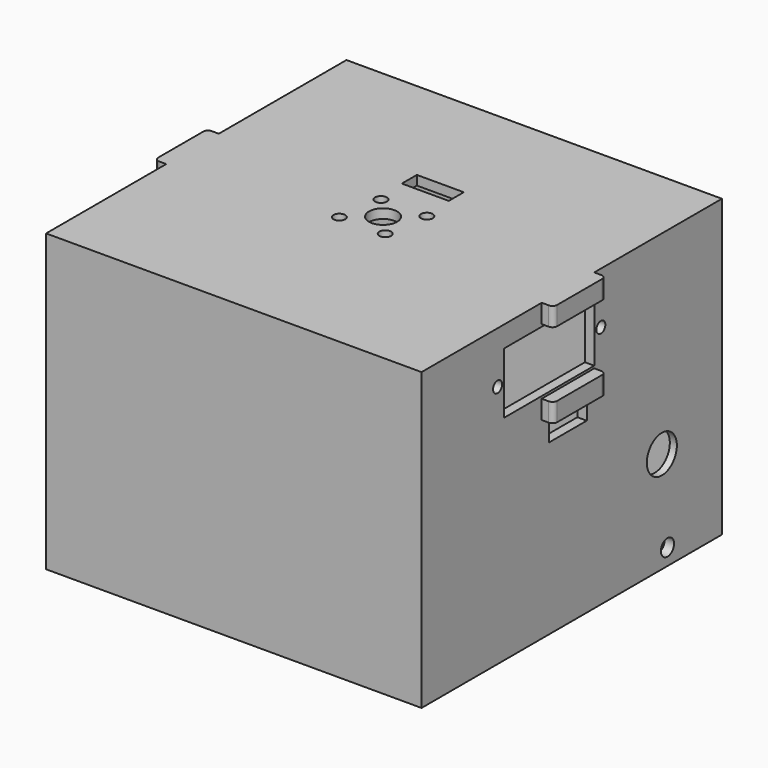
from build123d import *

# Parameters (mm, degrees)
BOX036_W                  = 10
BOX036_H                  = 4
BOX036_DEPTH              = 10
CYLINDER046_R             = 3
CYLINDER046_DEPTH         = 13
CYLINDER046_ROLL_ANGLE    = 90
CYLINDER049_R             = 1.25
CYLINDER049_DEPTH         = 22
CYLINDER049_PITCH_ANGLE   = 90
CYLINDER050_R             = 1.25
CYLINDER050_DEPTH         = 22
CYLINDER050_PITCH_ANGLE   = 90
CYLINDER048_R             = 1.25
CYLINDER048_DEPTH         = 22
CYLINDER048_PITCH_ANGLE   = 90
CYLINDER047_R             = 1.25
CYLINDER047_DEPTH         = 22
CYLINDER047_PITCH_ANGLE   = 90
FUSION033_ROLL_ANGLE      = 34
FUSION033_PLACEMENT_ANGLE = -90
FUSION034_ROLL_ANGLE      = 90
BOX035_W                  = 10
BOX035_H                  = 94
BOX035_DEPTH              = 4
BOX032_W                  = 14
BOX032_H                  = 3
BOX032_DEPTH              = 4
BOX031_W                  = 14
BOX031_H                  = 3
BOX031_DEPTH              = 4
BOX033_W                  = 14
BOX033_H                  = 3
BOX033_DEPTH              = 4
BOX034_W                  = 14
BOX034_H                  = 3
BOX034_DEPTH              = 4
SKETCH010_R               = 1.2
SKETCH010_W               = 24
SKETCH010_H               = 13
PAD005_DEPTH              = 140
CYLINDER044_R             = 6
CYLINDER044_DEPTH         = 31
CYLINDER044_ROLL_ANGLE    = 90
CYLINDER042_R             = 1.75
CYLINDER042_DEPTH         = 31
CYLINDER042_ROLL_ANGLE    = 90
BOX029_W                  = 17
BOX029_H                  = 77
BOX029_DEPTH              = 49
FILLET008_R               = 2
CYLINDER045_R             = 4
CYLINDER045_DEPTH         = 31
CYLINDER045_ROLL_ANGLE    = 90
CYLINDER043_R             = 1.75
CYLINDER043_DEPTH         = 31
CYLINDER043_ROLL_ANGLE    = 90
BOX028_W                  = 8
BOX028_H                  = 24
BOX028_DEPTH              = 11
BOX027_W                  = 76
BOX027_H                  = 76
BOX027_DEPTH              = 66
FILLET007_R               = 3.5
BOX030_W                  = 80
BOX030_H                  = 80
BOX030_DEPTH              = 63
FILLET009_R               = 1
CLONE011_PLACEMENT_ANGLE  = -90


with BuildPart() as cubo012:
    # Box036 → Box036 (new body)
    with BuildSketch(Plane(origin=(-244, 64, 124), x_dir=(1, 0, 0), z_dir=(0, 0, 1))):
        with Locations((5, 2)):
            Rectangle(BOX036_W, BOX036_H)
    extrude(amount=BOX036_DEPTH)


with BuildPart() as cilindro019:
    # Cylinder046 → Cylinder046 (new body)
    with BuildSketch(Plane.XY):
        Circle(CYLINDER046_R)
    extrude(amount=CYLINDER046_DEPTH)


with BuildPart() as cilindro019_1:
    # Cylinder046 roll: moved
    add(cilindro019.part.rotate(Axis((0, 0, 0), (1, 0, 0)), CYLINDER046_ROLL_ANGLE))


with BuildPart() as cilindro019_2:
    # Cylinder046 placement: moved
    add(cilindro019_1.part.moved(Location((17.25, -6, 120))))


with BuildPart() as cilindro022:
    # Cylinder049 → Cylinder049 (new body)
    with BuildSketch(Plane.XY):
        Circle(CYLINDER049_R)
    extrude(amount=CYLINDER049_DEPTH)


with BuildPart() as cilindro022_1:
    # Cylinder049 pitch: moved
    add(cilindro022.part.rotate(Axis((0, 0, 0), (0, 1, 0)), CYLINDER049_PITCH_ANGLE))


with BuildPart() as cilindro022_2:
    # Cylinder049 placement: moved
    add(cilindro022_1.part.moved(Location((20.25, -38, 124.25))))


with BuildPart() as cilindro023:
    # Cylinder050 → Cylinder050 (new body)
    with BuildSketch(Plane.XY):
        Circle(CYLINDER050_R)
    extrude(amount=CYLINDER050_DEPTH)


with BuildPart() as cilindro023_1:
    # Cylinder050 pitch: moved
    add(cilindro023.part.rotate(Axis((0, 0, 0), (0, 1, 0)), CYLINDER050_PITCH_ANGLE))


with BuildPart() as cilindro023_2:
    # Cylinder050 placement: moved
    add(cilindro023_1.part.moved(Location((20.25, -26, 127.25))))


with BuildPart() as cilindro021:
    # Cylinder048 → Cylinder048 (new body)
    with BuildSketch(Plane.XY):
        Circle(CYLINDER048_R)
    extrude(amount=CYLINDER048_DEPTH)


with BuildPart() as cilindro021_1:
    # Cylinder048 pitch: moved
    add(cilindro021.part.rotate(Axis((0, 0, 0), (0, 1, 0)), CYLINDER048_PITCH_ANGLE))


with BuildPart() as cilindro021_2:
    # Cylinder048 placement: moved
    add(cilindro021_1.part.moved(Location((20.25, -30, 118.75))))


with BuildPart() as fusion034:
    # Cylinder047 → Cylinder047 (new body)
    with BuildSketch(Plane.XY):
        Circle(CYLINDER047_R)
    extrude(amount=CYLINDER047_DEPTH)


with BuildPart() as fusion034_1:
    # Cylinder047 pitch: moved
    add(fusion034.part.rotate(Axis((0, 0, 0), (0, 1, 0)), CYLINDER047_PITCH_ANGLE))


with BuildPart() as fusion034_2:
    # Cylinder047 placement: moved
    add(fusion034_1.part.moved(Location((20.25, -34, 132.75))))

    # Fusion033: union Cilindro022, Cilindro023, Cilindro021
    add(cilindro022_2.part)
    add(cilindro023_2.part)
    add(cilindro021_2.part)


with BuildPart() as fusion034_3:
    # Fusion033 roll: moved
    add(fusion034_2.part.rotate(Axis((0, 0, 0), (1, 0, 0)), FUSION033_ROLL_ANGLE))


with BuildPart() as fusion034_4:
    # Fusion033 placement: moved
    add(fusion034_3.part.moved(Location((114.107998, 21, 33.646227))).rotate(Axis((114.107998, 21, 33.646227), (0, 0, 1)), FUSION033_PLACEMENT_ANGLE))

    # Fusion034: union Cilindro019
    add(cilindro019_2.part)


with BuildPart() as fusion034_5:
    # Fusion034 roll: moved
    add(fusion034_4.part.rotate(Axis((0, 0, 0), (1, 0, 0)), FUSION034_ROLL_ANGLE))


with BuildPart() as fusion034_6:
    # Fusion034 placement: moved
    add(fusion034_5.part.moved(Location((-256.25, 172.75, 144))))


with BuildPart() as cubo:
    # Box035 → Box035 (new body)
    with BuildSketch(Plane(origin=(13, -11, 104), x_dir=(1, 0, 0), z_dir=(0, 0, 1))):
        with Locations((5, 47)):
            Rectangle(BOX035_W, BOX035_H)
    extrude(amount=BOX035_DEPTH)


with BuildPart() as cubo009:
    # Box032 → Box032 (new body)
    with BuildSketch(Plane(origin=(11, 75.5, 127), x_dir=(1, 0, 0), z_dir=(0, 0, 1))):
        with Locations((7, 1.5)):
            Rectangle(BOX032_W, BOX032_H)
    extrude(amount=BOX032_DEPTH)


with BuildPart() as cubo008:
    # Box031 → Box031 (new body)
    with BuildSketch(Plane(origin=(11, 75.5, 109), x_dir=(1, 0, 0), z_dir=(0, 0, 1))):
        with Locations((7, 1.5)):
            Rectangle(BOX031_W, BOX031_H)
    extrude(amount=BOX031_DEPTH)


with BuildPart() as cubo010:
    # Box033 → Box033 (new body)
    with BuildSketch(Plane(origin=(11, -6.5, 109), x_dir=(1, 0, 0), z_dir=(0, 0, 1))):
        with Locations((7, 1.5)):
            Rectangle(BOX033_W, BOX033_H)
    extrude(amount=BOX033_DEPTH)


with BuildPart() as cubo011:
    # Box034 → Box034 (new body)
    with BuildSketch(Plane(origin=(11, -6.5, 127), x_dir=(1, 0, 0), z_dir=(0, 0, 1))):
        with Locations((7, 1.5)):
            Rectangle(BOX034_W, BOX034_H)
    extrude(amount=BOX034_DEPTH)


with BuildPart() as pad005:
    # Sketch010 → Pad005 (new body)
    with BuildSketch(Plane(origin=(-0.25, -35, 0), x_dir=(1, 0, 0), z_dir=(0, -1, 0))):
        with Locations((37, 120)):
            Circle(SKETCH010_R)
        with Locations((9.5, 120)):
            Circle(SKETCH010_R)
        with Locations((23.25, 120)):
            Rectangle(SKETCH010_W, SKETCH010_H)
    extrude(amount=-PAD005_DEPTH)


with BuildPart() as cylinder107:
    # Cylinder044 → Cylinder044 (new body)
    with BuildSketch(Plane.XY):
        Circle(CYLINDER044_R)
    extrude(amount=CYLINDER044_DEPTH)


with BuildPart() as cylinder107_1:
    # Cylinder044 roll: moved
    add(cylinder107.part.rotate(Axis((0, 0, 0), (1, 0, 0)), CYLINDER044_ROLL_ANGLE))


with BuildPart() as cylinder107_2:
    # Cylinder044 placement: moved
    add(cylinder107_1.part.moved(Location((-4, 11, 83.5))))


with BuildPart() as cylinder105:
    # Cylinder042 → Cylinder042 (new body)
    with BuildSketch(Plane.XY):
        Circle(CYLINDER042_R)
    extrude(amount=CYLINDER042_DEPTH)


with BuildPart() as cylinder105_1:
    # Cylinder042 roll: moved
    add(cylinder105.part.rotate(Axis((0, 0, 0), (1, 0, 0)), CYLINDER042_ROLL_ANGLE))


with BuildPart() as cylinder105_2:
    # Cylinder042 placement: moved
    add(cylinder105_1.part.moved(Location((-8.5, 11, 71.5))))


with BuildPart() as fillet008:
    # Box029 → Box029 (new body)
    with BuildSketch(Plane(origin=(-14, -2.5, 75), x_dir=(1, 0, 0), z_dir=(0, 0, 1))):
        with Locations((8.5, 38.5)):
            Rectangle(BOX029_W, BOX029_H)
    extrude(amount=BOX029_DEPTH)

    # Fillet008
    fillet008_edges = [fillet008.edges().sort_by_distance(p)[0] for p in [
        (-14, -2.5, 99.5),
        (-14, 36, 124),
        (-14, 74.5, 99.5),
        (-14, 36, 75),
        (3, -2.5, 99.5),
        (3, 36, 124),
        (3, 74.5, 99.5),
        (3, 36, 75),
        (-5.5, -2.5, 75),
        (-5.5, -2.5, 124),
        (-5.5, 74.5, 75),
        (-5.5, 74.5, 124),
    ]]
    fillet(fillet008_edges, radius=FILLET008_R)


with BuildPart() as cylinder108:
    # Cylinder045 → Cylinder045 (new body)
    with BuildSketch(Plane.XY):
        Circle(CYLINDER045_R)
    extrude(amount=CYLINDER045_DEPTH)


with BuildPart() as cylinder108_1:
    # Cylinder045 roll: moved
    add(cylinder108.part.rotate(Axis((0, 0, 0), (1, 0, 0)), CYLINDER045_ROLL_ANGLE))


with BuildPart() as cylinder108_2:
    # Cylinder045 placement: moved
    add(cylinder108_1.part.moved(Location((-7, 80, 89.6))))


with BuildPart() as cylinder106:
    # Cylinder043 → Cylinder043 (new body)
    with BuildSketch(Plane.XY):
        Circle(CYLINDER043_R)
    extrude(amount=CYLINDER043_DEPTH)


with BuildPart() as cylinder106_1:
    # Cylinder043 roll: moved
    add(cylinder106.part.rotate(Axis((0, 0, 0), (1, 0, 0)), CYLINDER043_ROLL_ANGLE))


with BuildPart() as cylinder106_2:
    # Cylinder043 placement: moved
    add(cylinder106_1.part.moved(Location((-8.5, 80, 71.5))))


with BuildPart() as fusion031:
    # Box028 → Box028 (new body)
    with BuildSketch(Plane(origin=(-13.5, -13, 95), x_dir=(1, 0, 0), z_dir=(0, 0, 1))):
        with Locations((4, 12)):
            Rectangle(BOX028_W, BOX028_H)
    extrude(amount=BOX028_DEPTH)

    # Fusion031: union Cylinder107, Cylinder105, Fillet008, Cylinder108, Cylinder106
    add(cylinder107_2.part)
    add(cylinder105_2.part)
    add(fillet008.part)
    add(cylinder108_2.part)
    add(cylinder106_2.part)


with BuildPart() as fillet007:
    # Box027 → Box027 (new body)
    with BuildSketch(Plane(origin=(-21, -2, 87), x_dir=(1, 0, 0), z_dir=(0, 0, 1))):
        with Locations((38, 38)):
            Rectangle(BOX027_W, BOX027_H)
    extrude(amount=BOX027_DEPTH)

    # Fillet007
    fillet007_edges = [fillet007.edges().sort_by_distance(p)[0] for p in [
        (-21, -2, 120),
        (-21, 36, 153),
        (-21, 74, 120),
        (55, -2, 120),
        (55, 36, 153),
        (55, 74, 120),
        (17, -2, 153),
        (17, 74, 153),
    ]]
    fillet(fillet007_edges, radius=FILLET007_R)


with BuildPart() as fillet007_1:
    # Fillet007 placement: moved
    add(fillet007.part.moved(Location((0, 0, -24))))


with BuildPart() as body_yaw_head:
    # Box030 → Box030 (new body)
    with BuildSketch(Plane(origin=(-23, -4, 68), x_dir=(1, 0, 0), z_dir=(0, 0, 1))):
        with Locations((40, 40)):
            Rectangle(BOX030_W, BOX030_H)
    extrude(amount=BOX030_DEPTH)

    # Cut045: cut Fillet007
    add(fillet007_1.part, mode=Mode.SUBTRACT)

    # Cut046: cut Fusion031
    add(fusion031.part, mode=Mode.SUBTRACT)

    # Cut047: cut Pad005
    add(pad005.part, mode=Mode.SUBTRACT)

    # Fusion032: union Cubo009, Cubo008, Cubo010, Cubo011
    add(cubo009.part)
    add(cubo008.part)
    add(cubo010.part)
    add(cubo011.part)

    # Fillet009
    fillet009_edges = [body_yaw_head.edges().sort_by_distance(p)[0] for p in [
        (25, -6.5, 129),
        (11, -6.5, 129),
        (11, -6.5, 111),
        (25, -6.5, 111),
        (25, 78.5, 129),
        (11, 78.5, 129),
        (25, 78.5, 111),
        (11, 78.5, 111),
    ]]
    fillet(fillet009_edges, radius=FILLET009_R)

    # Cut048: cut Cubo
    add(cubo.part, mode=Mode.SUBTRACT)


with BuildPart() as body_yaw_head_1:
    # Clone011 placement: moved
    add(body_yaw_head.part.moved(Location((-275, 70, 2))).rotate(Axis((-275, 70, 2), (0, 0, 1)), CLONE011_PLACEMENT_ANGLE))

    # Cut049: cut Fusion034
    add(fusion034_6.part, mode=Mode.SUBTRACT)

    # Cut050: cut Cubo012
    add(cubo012.part, mode=Mode.SUBTRACT)


solid = body_yaw_head_1.part
